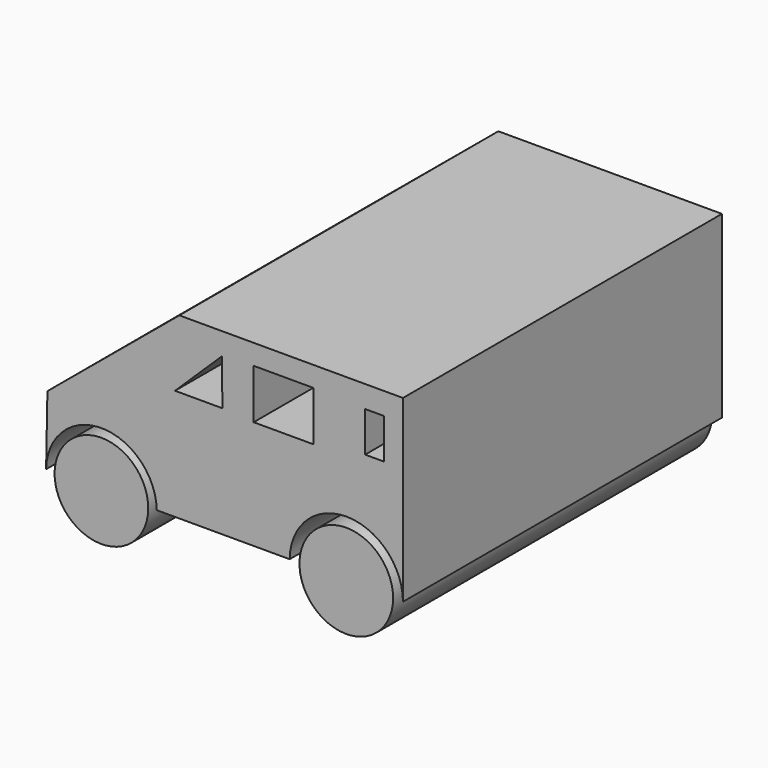
from build123d import *

# Parameters (mm, degrees)
F0_W     = 9
F0_H     = 7.472079
F0_W_2   = 2.822788
F0_H_2   = 6.044082
F0_R     = 7.04392
F0_R_2   = 7.045
F1_DEPTH = 60


with BuildPart() as f1:
    # F0 (on Front) → F1 (new body)
    with BuildSketch(Plane.XZ):
        Polygon((-49.340367, 10.418262), (-49.340367, 0), (-37.00133, 0), (-37.00133, 26.909753), (-40.631652, 26.909753), (-57.566967, 10.418262), align=None)
        Polygon((-46.5873, 16.709433), (-39.514629, 23.59675), (-39.469328, 16.709433), align=None, mode=Mode.SUBTRACT)
        with BuildLine():
            ThreePointArc((-65.993623, 0), (-57.666995, 8.168272), (-49.340367, 0))
            Line((-49.340367, 0), (-49.340367, 10.418262))
            Line((-49.340367, 10.418262), (-57.566967, 10.418262))
            Line((-57.566967, 10.418262), (-65.793568, 10.418262))
            Line((-65.793568, 10.418262), (-65.993623, 0))
        make_face()
        Polygon((-37.00133, 26.909753), (-37.00133, 0), (-29.340367, 0), (-29.340367, 10.652354), (-25.786178, 10.652354), (-20.816967, 19.711269), (-20.816967, 26.909753), align=None)
        with Locations((-30.252674, 20.126383)):
            Rectangle(F0_W, F0_H, mode=Mode.SUBTRACT)
        with BuildLine():
            Line((-29.340367, 10.652354), (-29.340367, 0))
            ThreePointArc((-29.340367, 0), (-20.772082, 8.433272), (-12.293568, -0.090247))
            Line((-12.293568, -0.090247), (-12.293568, 10.652354))
            Line((-12.293568, 10.652354), (-25.786178, 10.652354))
            Line((-25.786178, 10.652354), (-29.340367, 10.652354))
        make_face()
        Polygon((-65.793568, 10.418262), (-57.566967, 10.418262), (-40.631652, 26.909753), (-45.937501, 26.909753), align=None)
        Polygon((-12.293568, 26.909753), (-20.816967, 26.909753), (-20.816967, 19.711269), (-25.786178, 10.652354), (-12.293568, 10.652354), align=None)
        with Locations((-16.570614, 20.574709)):
            Rectangle(F0_W_2, F0_H_2, mode=Mode.SUBTRACT)
        with Locations((-57.666995, -0.159891)):
            Circle(F0_R)
        with Locations((-20.817206, -0.090247)):
            Circle(F0_R_2)
    extrude(amount=F1_DEPTH)


solid = f1.part
